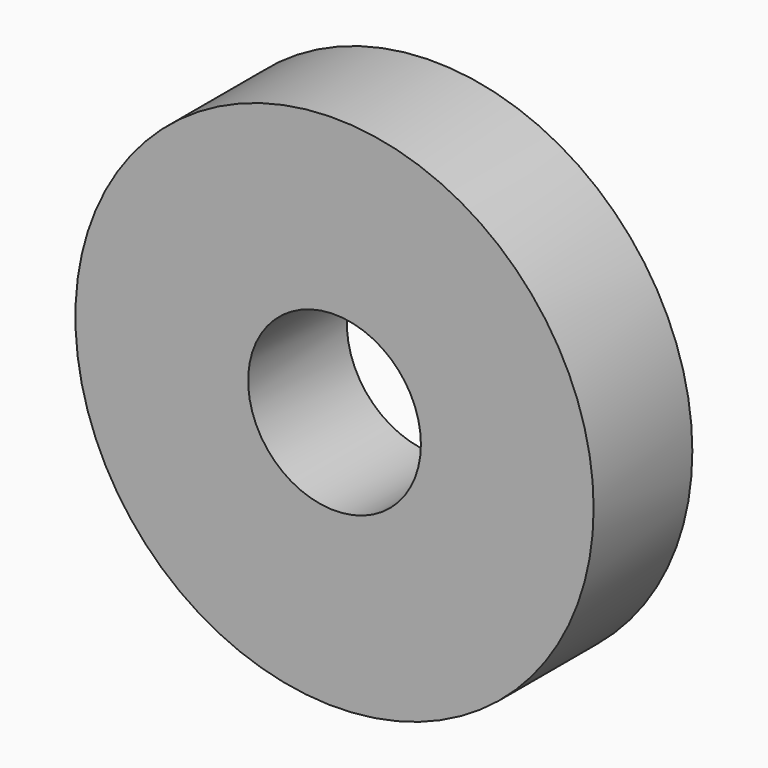
from build123d import *

# Parameters (mm, degrees)
CYLINDER015_R                = 3.5
CYLINDER015_DEPTH            = 10
CYLINDER014_R                = 10.5
CYLINDER014_DEPTH            = 5
CUT005014016_PLACEMENT_ANGLE = 90


with BuildPart() as cylinder015:
    # Cylinder015 → Cylinder015 (new body)
    with BuildSketch(Plane.XY.offset(-3)):
        Circle(CYLINDER015_R)
    extrude(amount=CYLINDER015_DEPTH)


with BuildPart() as obj1:
    # Cylinder014 → Cylinder014 (new body)
    with BuildSketch(Plane.XY):
        Circle(CYLINDER014_R)
    extrude(amount=CYLINDER014_DEPTH)

    # Cut005014016: cut Cylinder015
    add(cylinder015.part, mode=Mode.SUBTRACT)


with BuildPart() as obj1_1:
    # Cut005014016 placement: moved
    add(obj1.part.moved(Location((89, 0.5, 10.4))).rotate(Axis((89, 0.5, 10.4), (1, 0, 0)), CUT005014016_PLACEMENT_ANGLE))


solid = obj1_1.part
